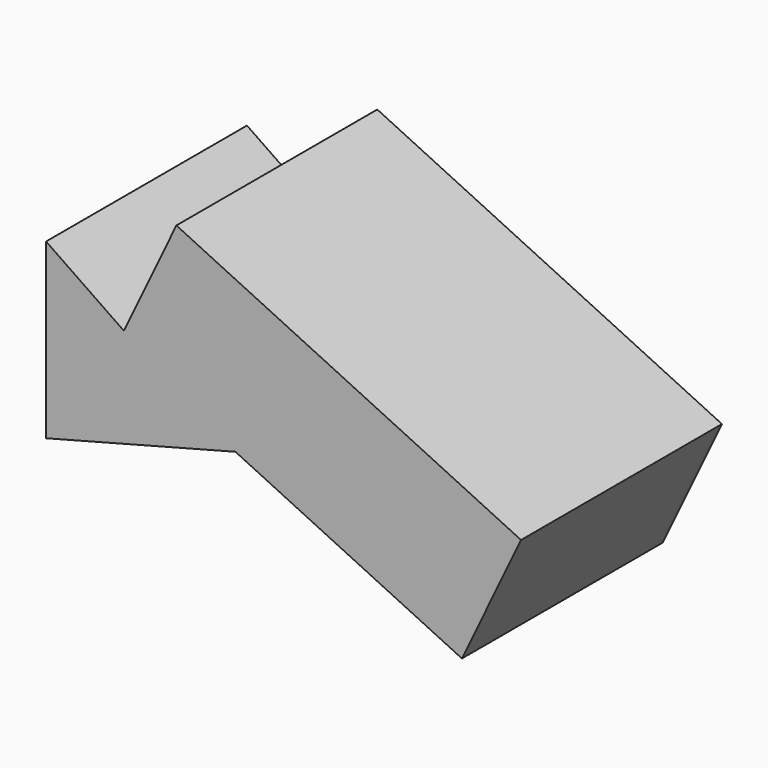
from build123d import *

# Parameters (mm, degrees)
F1_DEPTH = 76.2
F2_DEPTH = 76.2


with BuildPart() as f1:
    # F0 (on Front) → F1 (new body)
    with BuildSketch(Plane.XZ):
        Polygon((15.9395597875, 33.3230420947), (0, 0), (-23.6055366695, 16.1788745644), (-23.6055366695, -36.3934971392), (33.8444890328, -21.3188421257), (51.7809395939, 16.1788745644), align=None)
    extrude(amount=F1_DEPTH)

    # F2 (add): a face of the model
    f2_faces = [f1.faces().sort_by_distance(p)[0] for p in [
        (42.8127143134, -38.1, -2.5699837806),
    ]]
    extrude(f2_faces, amount=F2_DEPTH)


solid = f1.part
